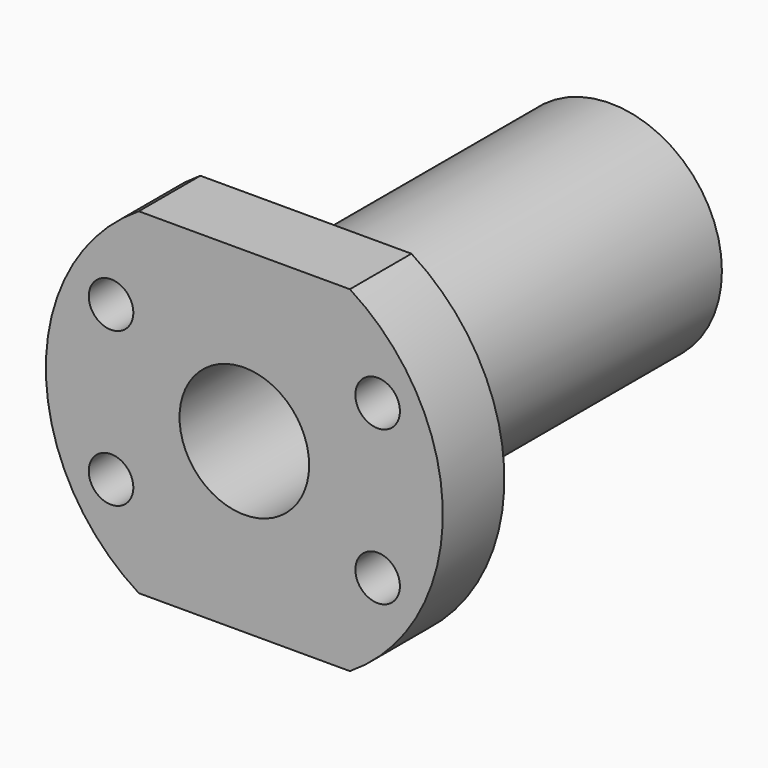
from build123d import *

# Parameters (mm, degrees)
F0_R     = 13.75
F1_DEPTH = 47
F2_R     = 13.75
F3_DEPTH = 9.5
F4_R     = 8
F5_DEPTH = 56.501
F7_D     = 5.5


with BuildPart() as f1:
    # F0 (on Front) → F1 (new body)
    with BuildSketch(Plane.XZ):
        Circle(F0_R)
    extrude(amount=F1_DEPTH)

    # F2 (on face) → F3 (join)
    with BuildSketch(Plane.XZ.offset(47)):
        with BuildLine():
            Line((13.0264154701, 20.75), (-13.0264154701, 20.75))
            ThreePointArc((-13.0264154701, 20.75), (-24.5, 0), (-13.0264154701, -20.75))
            Line((-13.0264154701, -20.75), (13.0264154701, -20.75))
            ThreePointArc((13.0264154701, -20.75), (24.5, 0), (13.0264154701, 20.75))
        make_face()
        Circle(F2_R, mode=Mode.SUBTRACT)
        Circle(F2_R)
    extrude(amount=F3_DEPTH)

    # F4 (on face) → F5 (cut, through all)
    with BuildSketch(Plane.XZ.offset(56.5)):
        Circle(F4_R)
    extrude(amount=-F5_DEPTH, mode=Mode.SUBTRACT)

    # F7 (through all)
    with Locations(Plane.XZ.offset(56.5)):
        with Locations((-16.4544826719, 9.5), (-16.4544826719, -9.5), (16.4544826719, 9.5), (16.4544826719, -9.5)):
            Hole(F7_D / 2)


solid = f1.part
